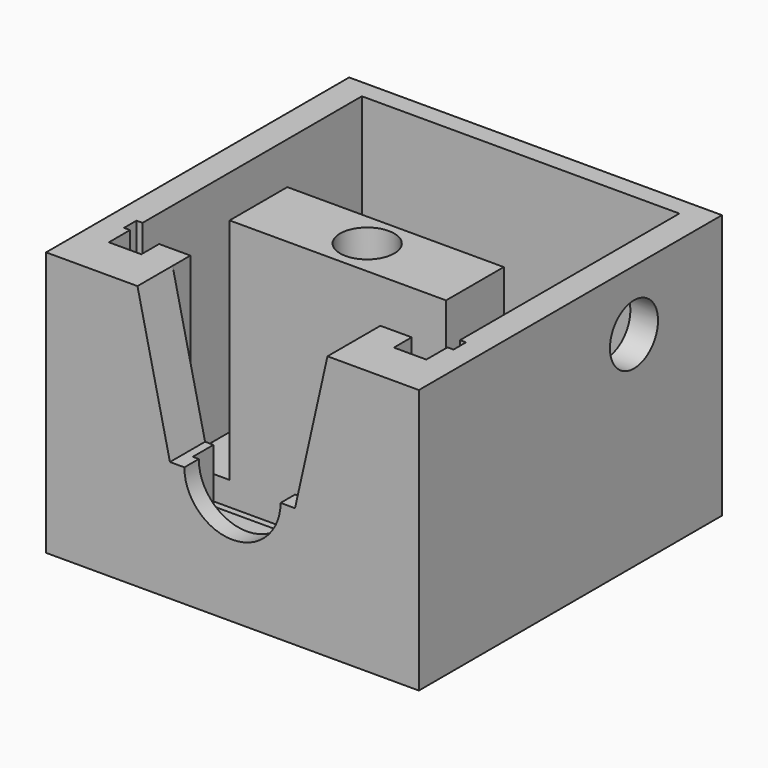
from build123d import *

# Parameters (mm, degrees)
SKETCH_W             = 31
SKETCH_H             = 31.5
PAD_DEPTH            = 12
PAD_DEPTH_BACK       = 10
POCKET_DEPTH         = 21
SKETCH002_W          = 26.4
SKETCH002_H          = 22.8
SKETCH002_W_2        = 18
SKETCH002_H_2        = 6
POCKET001_DEPTH      = 19
SKETCH003_W          = 9
SKETCH003_H          = 5
POCKET002_DEPTH      = 4.5
POCKET002_DEPTH_BACK = 15
POCKET003_DEPTH      = 6.501
SKETCH005_W          = 16
SKETCH005_H          = 3.6
POCKET004_DEPTH      = 1
SKETCH006_R          = 2
POCKET005_DEPTH      = 25.001
HOLE_D               = 2.8
HOLE_DEPTH           = 14
HOLE_CBORE_D         = 4.5
HOLE_CBORE_DEPTH     = 5
HOLE_TIPS_R          = 1.4
SKETCH008_R          = 2.5
POCKET006_DEPTH      = 15.501


with BuildPart() as part:
    # Sketch → Pad (new body, two sides)
    with BuildSketch(Plane.XY) as pad_sk:
        with Locations((0, 9.25)):
            Rectangle(SKETCH_W, SKETCH_H)
    extrude(amount=PAD_DEPTH)
    extrude(pad_sk.sketch, amount=-PAD_DEPTH_BACK)

    # Sketch001 → Pocket (cut)
    with BuildSketch(Plane.XY.offset(12)):
        Polygon((-7.9, -2.85), (-7.9, -1), (-10.5, -1), (-10.5, -2.85), (-13.2, -2.85), (-13.2, -0.65), (-13.7, -0.65), (-13.7, 0.65), (-13.2, 0.65), (-13.2, 4.45), (13.2, 4.45), (13.2, 0.65), (13.7, 0.65), (13.7, -0.65), (13.2, -0.65), (13.2, -2.85), (10.5, -2.85), (10.5, -1), (7.9, -1), (7.9, -2.85), align=None)
    extrude(amount=-POCKET_DEPTH, mode=Mode.SUBTRACT)

    # Sketch002 → Pocket001 (cut)
    with BuildSketch(Plane.XY.offset(12)):
        with Locations((0, 12.05)):
            Rectangle(SKETCH002_W, SKETCH002_H)
        with Locations((0, 7.45)):
            Rectangle(SKETCH002_W_2, SKETCH002_H_2, mode=Mode.SUBTRACT)
    extrude(amount=-POCKET001_DEPTH, mode=Mode.SUBTRACT)

    # Sketch003 → Pocket002 (cut, two sides)
    with BuildSketch(Plane.XY) as pocket002_sk:
        with Locations((0, -2.5)):
            Rectangle(SKETCH003_W, SKETCH003_H)
    extrude(amount=-POCKET002_DEPTH, mode=Mode.SUBTRACT)
    extrude(pocket002_sk.sketch, amount=POCKET002_DEPTH_BACK, mode=Mode.SUBTRACT)

    # Sketch004 → Pocket003 (cut, through all)
    with BuildSketch(Plane.XZ):
        with BuildLine():
            ThreePointArc((-4, 0), (0, -4), (4, 0))
            Line((5.2, 0), (4, 0))
            Line((7.9, 12), (5.2, 0))
            Line((-7.9, 12), (7.9, 12))
            Line((-5.2, 0), (-7.9, 12))
            Line((-4, 0), (-5.2, 0))
        make_face()
    extrude(amount=POCKET003_DEPTH, mode=Mode.SUBTRACT)

    # Sketch005 → Pocket004 (cut)
    with BuildSketch(Plane.XY.offset(-10)):
        with Locations((0, -1.8)):
            Rectangle(SKETCH005_W, SKETCH005_H)
    extrude(amount=POCKET004_DEPTH, mode=Mode.SUBTRACT)

    # Sketch006 → Pocket005 (cut, through all)
    with BuildSketch(Plane.XZ):
        with Locations((9.5, -5)):
            Circle(SKETCH006_R)
    extrude(amount=-POCKET005_DEPTH, mode=Mode.SUBTRACT)

    # Hole
    with Locations(Plane.XY.offset(12)):
        with Locations((0, 7.5)):
            CounterBoreHole(HOLE_D / 2, HOLE_CBORE_D / 2, HOLE_CBORE_DEPTH, depth=HOLE_DEPTH)

    # Hole tips → Hole tip 1 section 0
    with BuildSketch(Plane.XY.offset(-2), mode=Mode.PRIVATE) as hole_tip_1_s0:
        with Locations((0, 7.5)):
            Circle(HOLE_TIPS_R)
    loft([hole_tip_1_s0.sketch, Vertex(0, 7.5, -2.841205)], mode=Mode.SUBTRACT)

    # Sketch008 → Pocket006 (cut, through all)
    with BuildSketch(Plane.YZ):
        with Locations((15.858465, 6.985507)):
            Circle(SKETCH008_R)
    extrude(amount=POCKET006_DEPTH, mode=Mode.SUBTRACT)


solid = part.part
